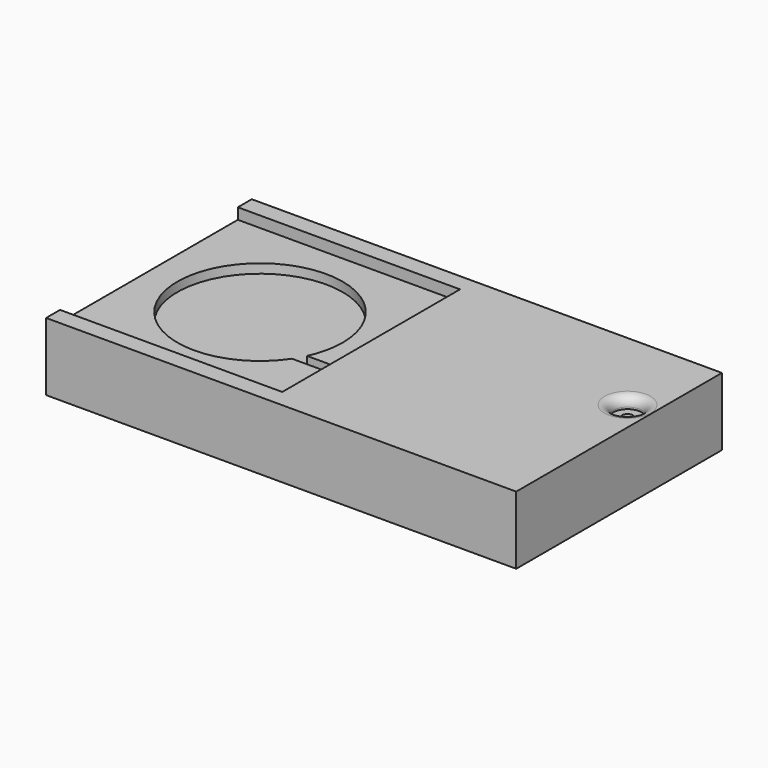
from build123d import *

# Parameters (mm, degrees)
F2_DEPTH  = 0.6
F3_W      = 12
F3_H      = 5
F4_DEPTH  = 1.5
F5_R      = 0.3
F6_DEPTH  = 0.5
F7_R      = 0.3
F8_DEPTH  = 0.5
F9_R      = 0.75
F10_DEPTH = 0.6
F11_R     = 0.5


with BuildPart() as f2:
    # F1 (on face) → F2 (new body)
    with BuildSketch(Plane.XY):
        Polygon((7, 7), (-18.6, 7), (-18.6, 6.05), (-18.6, -6.05), (-18.6, -7), (7, -7), align=None)
    extrude(amount=F2_DEPTH)

    # F3 (on face) → F4 (join)
    with BuildSketch(Plane.XY.offset(0.6)):
        Polygon((7, 7), (-18.6, 7), (-18.6, 6.05), (-18.6, -6.05), (-18.6, -7), (7, -7), align=None)
        Rectangle(F3_W, F3_H, mode=Mode.SUBTRACT)
    extrude(amount=F4_DEPTH)

    # F5 (on face) → F6 (join)
    with BuildSketch(Plane.XY.offset(2.1)):
        Polygon((7, 7), (-18.6, 7), (-18.6, 6.05), (-18.6, -6.05), (-18.6, -7), (7, -7), align=None)
        with Locations((-5.7, -2.2)):
            Circle(F5_R, mode=Mode.SUBTRACT)
        with Locations((5.7, 2.2)):
            Circle(F5_R, mode=Mode.SUBTRACT)
    extrude(amount=F6_DEPTH)

    # F7 (on face) → F8 (join)
    with BuildSketch(Plane.XY.offset(2.6)):
        Polygon((7, 7), (-18.6, 7), (-18.6, 6.05), (-18.6, -6.05), (-18.6, -7), (7, -7), align=None)
        with BuildLine():
            ThreePointArc((-5.7, -1.9), (-5.4878679656, -1.9878679656), (-5.4, -2.2))
            ThreePointArc((-5.4, -2.2), (-5.4878679656, -2.4121320344), (-5.7, -2.5))
            Line((-5.7, -2.5), (-8.8083426132, -2.5))
            ThreePointArc((-8.8083426132, -2.5), (-16.8562430401, 1.3062430401), (-8.05, 0))
            ThreePointArc((-8.05, 0), (-8.1564552894, -0.9730184354), (-8.4707843891, -1.9))
            Line((-8.4707843891, -1.9), (-5.7, -1.9))
        make_face(mode=Mode.SUBTRACT)
        with Locations((5.7, 2.2)):
            Circle(F7_R, mode=Mode.SUBTRACT)
    extrude(amount=F8_DEPTH)

    # F9 (on face) → F10 (join)
    with BuildSketch(Plane.XY.offset(3.1)):
        Polygon((7, 7), (-18.6, 7), (-18.6, 6.05), (-6.5, 6.05), (-6.5, -6.05), (-18.6, -6.05), (-18.6, -7), (7, -7), align=None)
        with Locations((5.7, 2.2)):
            Circle(F9_R, mode=Mode.SUBTRACT)
    extrude(amount=F10_DEPTH)

    # F11
    f11_edges = [f2.edges().sort_by_distance(p)[0] for p in [
        (4.95, 2.2, 3.7),
    ]]
    fillet(f11_edges, radius=F11_R)


solid = f2.part
